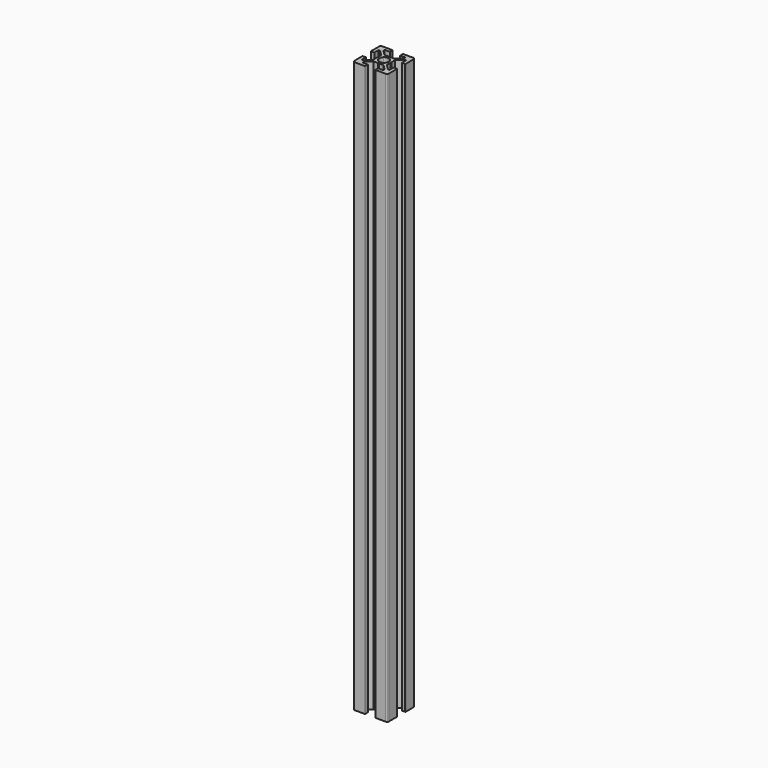
from build123d import *

# Parameters (mm, degrees)
PAD_DEPTH                          = 330
PAD_MIRRORED_2_DEPTH               = 330
PAD_MIRRORED001_2_DEPTH            = 330
PAD_MIRRORED_2_MIRRORED001_2_DEPTH = 330


with BuildPart() as part:
    # Sketch → Pad (new body)
    with BuildSketch(Plane.XY):
        with BuildLine():
            Line((-3.7, 0), (-4, -0.3))
            Line((-4, -0.3), (-4, -2.95))
            Line((-4, -2.95), (-7.05, -6))
            Line((-7.05, -6), (-8, -6))
            Line((-8, -6), (-8, -3))
            Line((-8, -3), (-9.7, -3))
            ThreePointArc((-9.7, -3), (-9.912132, -3.087868), (-10, -3.3))
            Line((-10, -3.3), (-10, -9))
            ThreePointArc((-10, -9), (-9.92388, -9.382683), (-9.707107, -9.707107))
            Line((-1.944544, -1.944544), (-9.707107, -9.707107))
            ThreePointArc((-2.75, 0), (-2.540669, -1.052379), (-1.944544, -1.944544))
            Line((-3.7, 0), (-2.75, 0))
        make_face()
    pad = extrude(amount=PAD_DEPTH)

    # Sketch Mirrored 2 → Pad Mirrored 2 (add)
    with BuildSketch(Plane.YX):
        with BuildLine():
            Line((-3.7, 0), (-4, -0.3))
            Line((-4, -0.3), (-4, -2.95))
            Line((-4, -2.95), (-7.05, -6))
            Line((-7.05, -6), (-8, -6))
            Line((-8, -6), (-8, -3))
            Line((-8, -3), (-9.7, -3))
            ThreePointArc((-9.7, -3), (-9.912132, -3.087868), (-10, -3.3))
            Line((-10, -3.3), (-10, -9))
            ThreePointArc((-10, -9), (-9.92388, -9.382683), (-9.707107, -9.707107))
            Line((-1.944544, -1.944544), (-9.707107, -9.707107))
            ThreePointArc((-2.75, 0), (-2.540669, -1.052379), (-1.944544, -1.944544))
            Line((-3.7, 0), (-2.75, 0))
        make_face()
    pad_mirrored_2 = extrude(amount=-PAD_MIRRORED_2_DEPTH)

    # Sketch Mirrored001 2 → Pad Mirrored001 2 (add)
    with BuildSketch(Plane(origin=(0, 0, 0), x_dir=(-1, 0, 0), z_dir=(0, 0, -1))):
        with BuildLine():
            Line((-3.7, 0), (-4, -0.3))
            Line((-4, -0.3), (-4, -2.95))
            Line((-4, -2.95), (-7.05, -6))
            Line((-7.05, -6), (-8, -6))
            Line((-8, -6), (-8, -3))
            Line((-8, -3), (-9.7, -3))
            ThreePointArc((-9.7, -3), (-9.912132, -3.087868), (-10, -3.3))
            Line((-10, -3.3), (-10, -9))
            ThreePointArc((-10, -9), (-9.92388, -9.382683), (-9.707107, -9.707107))
            Line((-1.944544, -1.944544), (-9.707107, -9.707107))
            ThreePointArc((-2.75, 0), (-2.540669, -1.052379), (-1.944544, -1.944544))
            Line((-3.7, 0), (-2.75, 0))
        make_face()
    pad_mirrored001_2 = extrude(amount=-PAD_MIRRORED001_2_DEPTH)

    # Sketch Mirrored 2 Mirrored001 2 → Pad Mirrored 2 Mirrored001 2 (add)
    with BuildSketch(Plane(origin=(0, 0, 0), x_dir=(0, 1, 0), z_dir=(0, 0, 1))):
        with BuildLine():
            Line((-3.7, 0), (-4, -0.3))
            Line((-4, -0.3), (-4, -2.95))
            Line((-4, -2.95), (-7.05, -6))
            Line((-7.05, -6), (-8, -6))
            Line((-8, -6), (-8, -3))
            Line((-8, -3), (-9.7, -3))
            ThreePointArc((-9.7, -3), (-9.912132, -3.087868), (-10, -3.3))
            Line((-10, -3.3), (-10, -9))
            ThreePointArc((-10, -9), (-9.92388, -9.382683), (-9.707107, -9.707107))
            Line((-1.944544, -1.944544), (-9.707107, -9.707107))
            ThreePointArc((-2.75, 0), (-2.540669, -1.052379), (-1.944544, -1.944544))
            Line((-3.7, 0), (-2.75, 0))
        make_face()
    pad_mirrored_2_mirrored001_2 = extrude(amount=PAD_MIRRORED_2_MIRRORED001_2_DEPTH)

    # Mirrored002: Pad, Pad Mirrored 2, Pad Mirrored001 2, Pad Mirrored 2 Mirrored001 2 across Sketch H_Axis
    add(pad.mirror(Plane.ZX))
    add(pad_mirrored_2.mirror(Plane.ZX))
    add(pad_mirrored001_2.mirror(Plane.ZX))
    add(pad_mirrored_2_mirrored001_2.mirror(Plane.ZX))


solid = part.part
